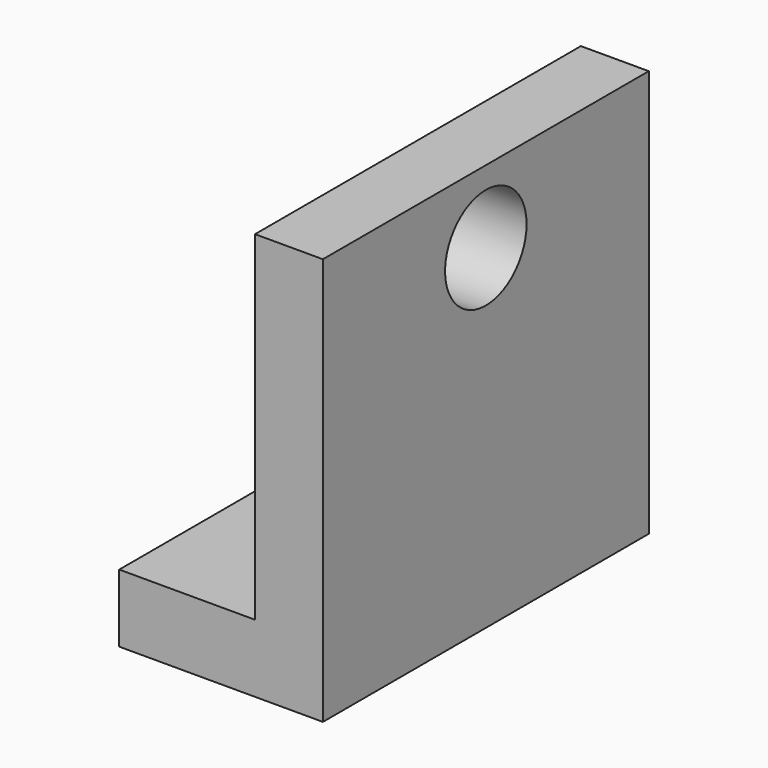
from build123d import *

# Parameters (mm, degrees)
F1_DEPTH = 76.2
F2_R     = 19.05
F3_DEPTH = 76.201


with BuildPart() as f1:
    # F0 (on Front) → F1 (new body, symmetric)
    with BuildSketch(Plane.XZ):
        Polygon((-76.2, 0), (0, 0), (0, 152.4), (-25.4, 152.4), (-25.4, 25.4), (-76.2, 25.4), align=None)
    extrude(amount=F1_DEPTH, both=True)

    # F2 (on face) → F3 (cut, through all)
    with BuildSketch(Plane.YZ):
        with Locations((0, 125.219263)):
            Circle(F2_R)
    extrude(amount=-F3_DEPTH, mode=Mode.SUBTRACT)


solid = f1.part
